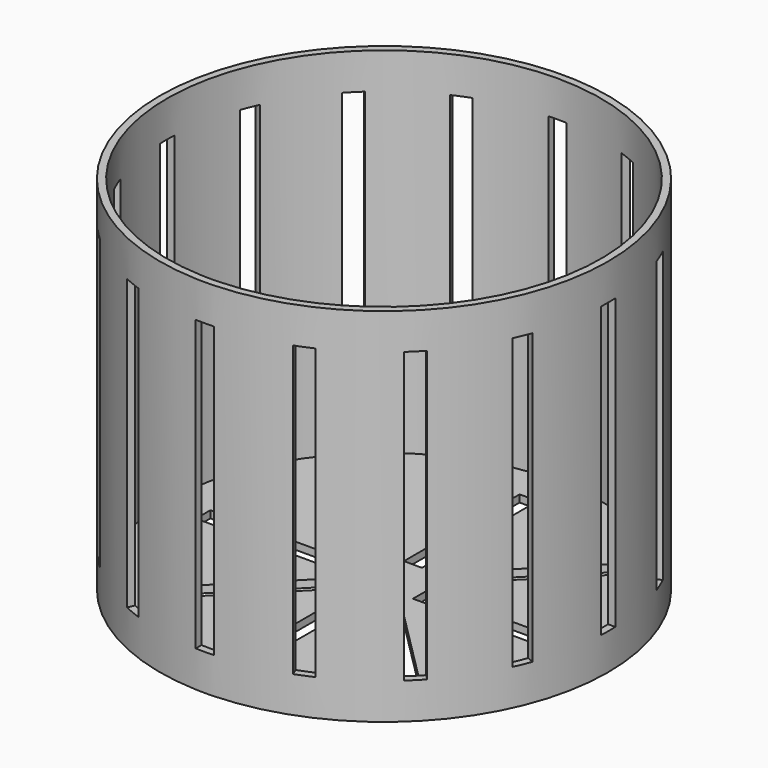
from build123d import *

# Parameters (mm, degrees)
F0_W     = 5
F0_H     = 40
F0_W_2   = 40
F0_H_2   = 5
F1_DEPTH = 2
F2_DEPTH = 100
F5_DEPTH = 80


with BuildPart() as f1:
    # F0 (on Top) → F1 (new body)
    with BuildSketch(Plane.XY):
        with BuildLine():
            ThreePointArc((2.5, -59.9478940414), (43.3012701892, -41.5331193146), (60, 0))
            ThreePointArc((60, 0), (-41.5331193146, 43.3012701892), (-2.5, -59.9478940414))
            ThreePointArc((-2.5, -59.9478940414), (0, -60), (2.5, -59.9478940414))
        make_face()
        Polygon((-8.8388347648, -5.3033008589), (-5.3033008589, -8.8388347648), (-33.5875721064, -37.1231060123), (-37.1231060123, -33.5875721064), align=None, mode=Mode.SUBTRACT)
        with Locations((0, -30)):
            Rectangle(F0_W, F0_H, mode=Mode.SUBTRACT)
        Polygon((5.3033008589, -8.8388347648), (8.8388347648, -5.3033008589), (37.1231060123, -33.5875721064), (33.5875721064, -37.1231060123), align=None, mode=Mode.SUBTRACT)
        with Locations((-30, 0)):
            Rectangle(F0_W_2, F0_H_2, mode=Mode.SUBTRACT)
        Polygon((-5.3033008589, 8.8388347648), (-8.8388347648, 5.3033008589), (-37.1231060123, 33.5875721064), (-33.5875721064, 37.1231060123), align=None, mode=Mode.SUBTRACT)
        with Locations((30, 0)):
            Rectangle(F0_W_2, F0_H_2, mode=Mode.SUBTRACT)
        with Locations((0, 30)):
            Rectangle(F0_W, F0_H, mode=Mode.SUBTRACT)
        Polygon((8.8388347648, 5.3033008589), (5.3033008589, 8.8388347648), (33.5875721064, 37.1231060123), (37.1231060123, 33.5875721064), align=None, mode=Mode.SUBTRACT)
        with BuildLine():
            ThreePointArc((2.5, -59.9478940414), (0, -60), (-2.5, -59.9478940414))
            Line((-2.5, -59.9478940414), (-2.5, -61.9495762697))
            ThreePointArc((-2.5, -61.9495762697), (0, -62), (2.5, -61.9495762697))
            Line((2.5, -61.9495762697), (2.5, -59.9478940414))
        make_face()
        with BuildLine():
            ThreePointArc((-2.5, -59.9478940414), (-41.5331193146, 43.3012701892), (60, 0))
            ThreePointArc((60, 0), (43.3012701892, -41.5331193146), (2.5, -59.9478940414))
            Line((2.5, -59.9478940414), (2.5, -61.9495762697))
            ThreePointArc((2.5, -61.9495762697), (44.7157690306, -42.947642543), (62, 0))
            ThreePointArc((62, 0), (-42.947642543, 44.7157690306), (-2.5, -61.9495762697))
            Line((-2.5, -61.9495762697), (-2.5, -59.9478940414))
        make_face()
    extrude(amount=F1_DEPTH)

    # F0 (on Top) → F2 (join)
    with BuildSketch(Plane.XY):
        with BuildLine():
            ThreePointArc((2.5, -59.9478940414), (0, -60), (-2.5, -59.9478940414))
            Line((-2.5, -59.9478940414), (-2.5, -61.9495762697))
            ThreePointArc((-2.5, -61.9495762697), (0, -62), (2.5, -61.9495762697))
            Line((2.5, -61.9495762697), (2.5, -59.9478940414))
        make_face()
        with BuildLine():
            ThreePointArc((-2.5, -59.9478940414), (-41.5331193146, 43.3012701892), (60, 0))
            ThreePointArc((60, 0), (43.3012701892, -41.5331193146), (2.5, -59.9478940414))
            Line((2.5, -59.9478940414), (2.5, -61.9495762697))
            ThreePointArc((2.5, -61.9495762697), (44.7157690306, -42.947642543), (62, 0))
            ThreePointArc((62, 0), (-42.947642543, 44.7157690306), (-2.5, -61.9495762697))
            Line((-2.5, -61.9495762697), (-2.5, -59.9478940414))
        make_face()
    extrude(amount=F2_DEPTH)

    # F4 (on offset) → F5 (cut)
    with BuildSketch(Plane.XY.offset(10)):
        with BuildLine():
            ThreePointArc((2.5, -59.9478940414), (0, -59.80692448), (-2.5, -59.9478940414))
            Line((-2.5, -59.9478940414), (-2.5, -61.9495762697))
            ThreePointArc((-2.5, -61.9495762697), (0, -62.078494201), (2.5, -61.9495762697))
            Line((2.5, -61.9495762697), (2.5, -59.9478940414))
        make_face()
        with BuildLine():
            Line((-25.2507646861, -54.4279237411), (-26.0167753117, -56.2772369824))
            ThreePointArc((-26.0167753117, -56.2772369824), (-23.7564112369, -57.3530502014), (-21.3973776492, -58.1906541443))
            Line((-21.3973776492, -58.1906541443), (-20.6313670235, -56.3413409029))
            ThreePointArc((-20.6313670235, -56.3413409029), (-22.8871191392, -55.2543934295), (-25.2507646861, -54.4279237411))
        make_face()
        with BuildLine():
            Line((-44.1573293475, -40.6217954416), (-45.5727324249, -42.037198519))
            ThreePointArc((-45.5727324249, -42.037198519), (-43.8961242154, -43.8961242154), (-42.037198519, -45.5727324249))
            Line((-42.037198519, -45.5727324249), (-40.6217954416, -44.1573293475))
            ThreePointArc((-40.6217954416, -44.1573293475), (-42.2898818617, -42.2898818617), (-44.1573293475, -40.6217954416))
        make_face()
        with BuildLine():
            Line((-56.3413409029, -20.6313670235), (-58.1906541443, -21.3973776492))
            ThreePointArc((-58.1906541443, -21.3973776492), (-57.3530502014, -23.7564112369), (-56.2772369824, -26.0167753117))
            Line((-56.2772369824, -26.0167753117), (-54.4279237411, -25.2507646861))
            ThreePointArc((-54.4279237411, -25.2507646861), (-55.2543934295, -22.8871191392), (-56.3413409029, -20.6313670235))
        make_face()
        with BuildLine():
            Line((-59.9478940414, 2.5), (-61.9495762697, 2.5))
            ThreePointArc((-61.9495762697, 2.5), (-62.078494201, 0), (-61.9495762697, -2.5))
            Line((-61.9495762697, -2.5), (-59.9478940414, -2.5))
            ThreePointArc((-59.9478940414, -2.5), (-59.80692448, 0), (-59.9478940414, 2.5))
        make_face()
        with BuildLine():
            Line((20.6313670235, -56.3413409029), (21.3973776492, -58.1906541443))
            ThreePointArc((21.3973776492, -58.1906541443), (23.7564112369, -57.3530502014), (26.0167753117, -56.2772369824))
            Line((26.0167753117, -56.2772369824), (25.2507646861, -54.4279237411))
            ThreePointArc((25.2507646861, -54.4279237411), (22.8871191392, -55.2543934295), (20.6313670235, -56.3413409029))
        make_face()
        with BuildLine():
            Line((40.6217954416, -44.1573293475), (42.037198519, -45.5727324249))
            ThreePointArc((42.037198519, -45.5727324249), (43.8961242154, -43.8961242154), (45.5727324249, -42.037198519))
            Line((45.5727324249, -42.037198519), (44.1573293475, -40.6217954416))
            ThreePointArc((44.1573293475, -40.6217954416), (42.2898818617, -42.2898818617), (40.6217954416, -44.1573293475))
        make_face()
        with BuildLine():
            Line((54.4279237411, -25.2507646861), (56.2772369824, -26.0167753117))
            ThreePointArc((56.2772369824, -26.0167753117), (57.3530502014, -23.7564112369), (58.1906541443, -21.3973776492))
            Line((58.1906541443, -21.3973776492), (56.3413409029, -20.6313670235))
            ThreePointArc((56.3413409029, -20.6313670235), (55.2543934295, -22.8871191392), (54.4279237411, -25.2507646861))
        make_face()
        with BuildLine():
            Line((56.3413409029, 20.6313670235), (58.1906541443, 21.3973776492))
            ThreePointArc((58.1906541443, 21.3973776492), (57.3530502014, 23.7564112369), (56.2772369824, 26.0167753117))
            Line((56.2772369824, 26.0167753117), (54.4279237411, 25.2507646861))
            ThreePointArc((54.4279237411, 25.2507646861), (55.2543934295, 22.8871191392), (56.3413409029, 20.6313670235))
        make_face()
        with BuildLine():
            Line((44.1573293475, 40.6217954416), (45.5727324249, 42.037198519))
            ThreePointArc((45.5727324249, 42.037198519), (43.8961242154, 43.8961242154), (42.037198519, 45.5727324249))
            Line((42.037198519, 45.5727324249), (40.6217954416, 44.1573293475))
            ThreePointArc((40.6217954416, 44.1573293475), (42.2898818617, 42.2898818617), (44.1573293475, 40.6217954416))
        make_face()
        with BuildLine():
            Line((25.2507646861, 54.4279237411), (26.0167753117, 56.2772369824))
            ThreePointArc((26.0167753117, 56.2772369824), (23.7564112369, 57.3530502014), (21.3973776492, 58.1906541443))
            Line((21.3973776492, 58.1906541443), (20.6313670235, 56.3413409029))
            ThreePointArc((20.6313670235, 56.3413409029), (22.8871191392, 55.2543934295), (25.2507646861, 54.4279237411))
        make_face()
        with BuildLine():
            Line((2.5, 59.9478940414), (2.5, 61.9495762697))
            ThreePointArc((2.5, 61.9495762697), (0, 62.078494201), (-2.5, 61.9495762697))
            Line((-2.5, 61.9495762697), (-2.5, 59.9478940414))
            ThreePointArc((-2.5, 59.9478940414), (0, 59.80692448), (2.5, 59.9478940414))
        make_face()
        with BuildLine():
            Line((-20.6313670235, 56.3413409029), (-21.3973776492, 58.1906541443))
            ThreePointArc((-21.3973776492, 58.1906541443), (-23.7564112369, 57.3530502014), (-26.0167753117, 56.2772369824))
            Line((-26.0167753117, 56.2772369824), (-25.2507646861, 54.4279237411))
            ThreePointArc((-25.2507646861, 54.4279237411), (-22.8871191392, 55.2543934295), (-20.6313670235, 56.3413409029))
        make_face()
        with BuildLine():
            Line((-54.4279237411, 25.2507646861), (-56.2772369824, 26.0167753117))
            ThreePointArc((-56.2772369824, 26.0167753117), (-57.3530502014, 23.7564112369), (-58.1906541443, 21.3973776492))
            Line((-58.1906541443, 21.3973776492), (-56.3413409029, 20.6313670235))
            ThreePointArc((-56.3413409029, 20.6313670235), (-55.2543934295, 22.8871191392), (-54.4279237411, 25.2507646861))
        make_face()
        with BuildLine():
            Line((-40.6217954416, 44.1573293475), (-42.037198519, 45.5727324249))
            ThreePointArc((-42.037198519, 45.5727324249), (-43.8961242154, 43.8961242154), (-45.5727324249, 42.037198519))
            Line((-45.5727324249, 42.037198519), (-44.1573293475, 40.6217954416))
            ThreePointArc((-44.1573293475, 40.6217954416), (-42.2898818617, 42.2898818617), (-40.6217954416, 44.1573293475))
        make_face()
        with BuildLine():
            Line((59.9478940414, -2.5), (61.9495762697, -2.5))
            ThreePointArc((61.9495762697, -2.5), (62.078494201, 0), (61.9495762697, 2.5))
            Line((61.9495762697, 2.5), (59.9478940414, 2.5))
            ThreePointArc((59.9478940414, 2.5), (59.80692448, 0), (59.9478940414, -2.5))
        make_face()
    extrude(amount=F5_DEPTH, mode=Mode.SUBTRACT)


solid = f1.part
